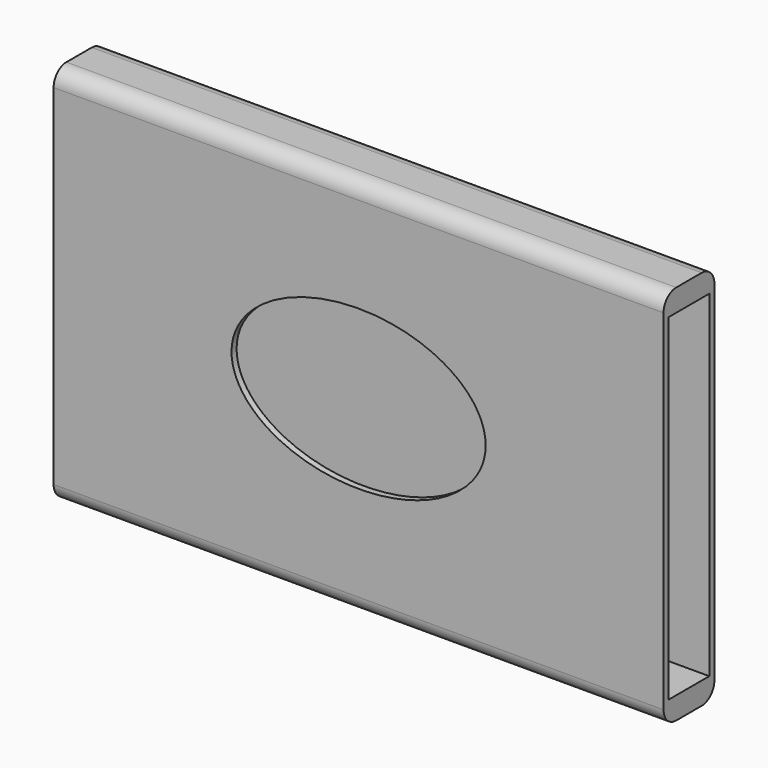
from build123d import *

# Parameters (mm, degrees)
F0_W     = 10
F0_H     = 60
F1_DEPTH = 48
F2_W     = 8
F2_H     = 53
F3_DEPTH = 91
F4_W     = 1
F4_H     = 53
F5_DEPTH = 5
F7_DEPTH = 1
F8_R     = 2.5


with BuildPart() as f1:
    # F0 (on Right) → F1 (new body, symmetric)
    with BuildSketch(Plane.YZ):
        Rectangle(F0_W, F0_H)
    extrude(amount=F1_DEPTH, both=True)

    # F2 (on face) → F3 (cut)
    with BuildSketch(Plane.YZ.offset(48)):
        Rectangle(F2_W, F2_H)
    extrude(amount=-F3_DEPTH, mode=Mode.SUBTRACT)

    # F4 (on face) → F5 (cut, through all)
    with BuildSketch(Plane(origin=(-48, 0, 0), x_dir=(0, -1, 0), z_dir=(-1, 0, 0))):
        with Locations((3.5, 0)):
            Rectangle(F4_W, F4_H)
    extrude(amount=-F5_DEPTH, mode=Mode.SUBTRACT)

    # F6 (on face) → F7 (cut, through all)
    with BuildSketch(Plane.XZ.offset(5)):
        with BuildLine():
            add(Edge.make_bspline(
                [(-20, 0), (-20, -21.650635), (10, -10.825318), (40, 0), (10, 10.825318), (-20, 21.650635), (-20, 0)],
                knots=[0, 0, 0, 2.094395, 2.094395, 4.18879, 4.18879, 6.283185, 6.283185, 6.283185], degree=2, weights=[1, 0.5, 1, 0.5, 1, 0.5, 1]))
        make_face()
    extrude(amount=-F7_DEPTH, mode=Mode.SUBTRACT)

    # F8
    f8_edges = [f1.edges().sort_by_distance(p)[0] for p in [
        (0, 5, 30),
        (0, -5, 30),
        (0, -5, -30),
        (0, 5, -30),
    ]]
    fillet(f8_edges, radius=F8_R)


solid = f1.part
